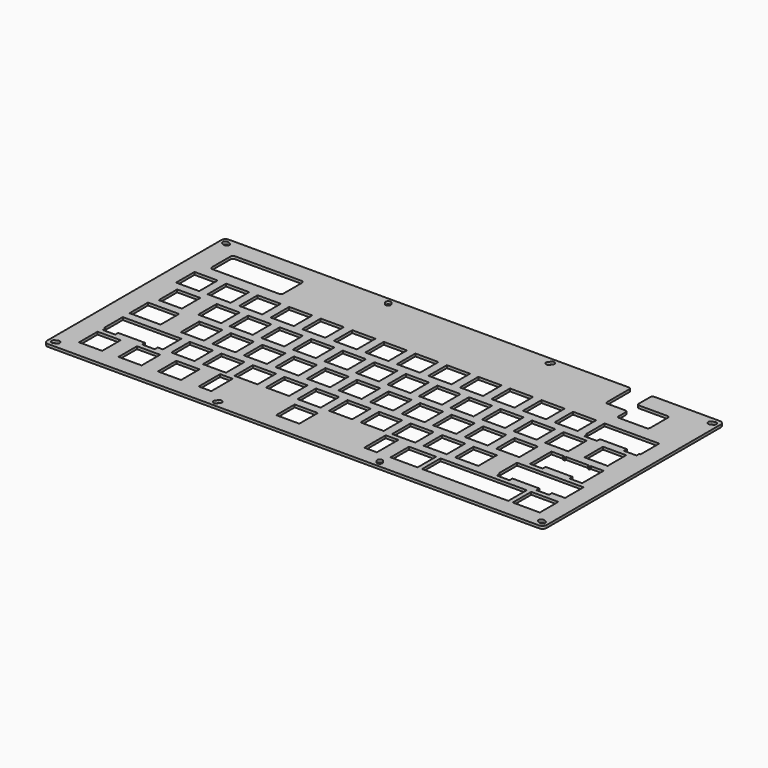
from build123d import *

# Parameters (mm, degrees)
PAD003_DEPTH    = 1.5875
SKETCH004_W     = 13.97
SKETCH004_H     = 13.97
SKETCH004_W_2   = 52.07
SKETCH004_W_3   = 16.35125
POCKET_DEPTH    = 1.5885
SKETCH005_W     = 7.62
SKETCH005_H     = 16.1925
POCKET001_DEPTH = 1.5885
POCKET002_DEPTH = 1.5885


with BuildPart() as part:
    # Sketch003 → Pad003 (new body)
    with BuildSketch(Plane.XY):
        with BuildLine():
            Line((-150.8125, 65.7225), (-150.8125, -65.7225))
            ThreePointArc((-150.8125, -65.7225), (-150.068551, -67.518551), (-148.2725, -68.2625))
            Line((-148.2725, -68.2625), (148.2725, -68.2625))
            ThreePointArc((148.2725, -68.2625), (150.068551, -67.518551), (150.8125, -65.7225))
            Line((150.8125, 65.7225), (150.8125, -65.7225))
            ThreePointArc((150.8125, 65.7225), (150.068551, 67.518551), (148.2725, 68.2625))
            Line((-148.2725, 68.2625), (148.2725, 68.2625))
            ThreePointArc((-148.2725, 68.2625), (-150.068551, 67.518551), (-150.8125, 65.7225))
        make_face()
        with BuildLine():
            ThreePointArc((-146.932012, 66.024454), (-148.973551, 65.226258), (-148.175356, 63.184718))
            Line((-148.175356, 63.184718), (-146.755488, 62.563046))
            ThreePointArc((-146.755488, 62.563046), (-144.713949, 63.361242), (-145.512144, 65.402782))
            Line((-146.932012, 66.024454), (-145.512144, 65.402782))
        make_face(mode=Mode.SUBTRACT)
        with BuildLine():
            ThreePointArc((-148.175356, -63.184718), (-148.973551, -65.226258), (-146.932012, -66.024454))
            Line((-146.932012, -66.024454), (-145.512144, -65.402782))
            ThreePointArc((-145.512144, -65.402782), (-144.713949, -63.361242), (-146.755488, -62.563046))
            Line((-148.175356, -63.184718), (-146.755488, -62.563046))
        make_face(mode=Mode.SUBTRACT)
        with BuildLine():
            ThreePointArc((146.755488, -62.563046), (144.713949, -63.361242), (145.512144, -65.402782))
            Line((145.512144, -65.402782), (146.932012, -66.024454))
            ThreePointArc((146.932012, -66.024454), (148.973551, -65.226258), (148.175356, -63.184718))
            Line((146.755488, -62.563046), (148.175356, -63.184718))
        make_face(mode=Mode.SUBTRACT)
        with BuildLine():
            ThreePointArc((148.175356, 63.184718), (148.973551, 65.226258), (146.932012, 66.024454))
            Line((146.932012, 66.024454), (145.512144, 65.402782))
            ThreePointArc((145.512144, 65.402782), (144.713949, 63.361242), (146.755488, 62.563046))
            Line((148.175356, 63.184718), (146.755488, 62.563046))
        make_face(mode=Mode.SUBTRACT)
        with BuildLine():
            ThreePointArc((-48.184102, 65.849292), (-50.356279, 66.143653), (-50.650639, 63.971476))
            Line((-50.650639, 63.971476), (-49.711731, 62.738208))
            ThreePointArc((-49.711731, 62.738208), (-47.539554, 62.443847), (-47.245194, 64.616024))
            Line((-48.184102, 65.849292), (-47.245194, 64.616024))
        make_face(mode=Mode.SUBTRACT)
        with BuildLine():
            ThreePointArc((47.245194, 64.616024), (47.539554, 62.443847), (49.711731, 62.738208))
            Line((49.711731, 62.738208), (50.650639, 63.971476))
            ThreePointArc((50.650639, 63.971476), (50.356279, 66.143653), (48.184102, 65.849292))
            Line((47.245194, 64.616024), (48.184102, 65.849292))
        make_face(mode=Mode.SUBTRACT)
        with BuildLine():
            ThreePointArc((49.711731, -62.738208), (47.539554, -62.443847), (47.245194, -64.616024))
            Line((47.245194, -64.616024), (48.184102, -65.849292))
            ThreePointArc((48.184102, -65.849292), (50.356279, -66.143653), (50.650639, -63.971476))
            Line((49.711731, -62.738208), (50.650639, -63.971476))
        make_face(mode=Mode.SUBTRACT)
        with BuildLine():
            ThreePointArc((-47.245194, -64.616024), (-47.539554, -62.443847), (-49.711731, -62.738208))
            Line((-49.711731, -62.738208), (-50.650639, -63.971476))
            ThreePointArc((-50.650639, -63.971476), (-50.356279, -66.143653), (-48.184102, -65.849292))
            Line((-47.245194, -64.616024), (-48.184102, -65.849292))
        make_face(mode=Mode.SUBTRACT)
    extrude(amount=PAD003_DEPTH)

    # Sketch004 → Pocket (cut, through all)
    with BuildSketch(Plane.XY):
        with Locations((-133.35, 25.4)):
            Rectangle(SKETCH004_W, SKETCH004_H)
        with Locations((-114.3, 25.4)):
            Rectangle(SKETCH004_W, SKETCH004_H)
        with Locations((-95.25, 25.4)):
            Rectangle(SKETCH004_W, SKETCH004_H)
        with Locations((-76.2, 25.4)):
            Rectangle(SKETCH004_W, SKETCH004_H)
        with Locations((-57.15, 25.4)):
            Rectangle(SKETCH004_W, SKETCH004_H)
        with Locations((-38.1, 25.4)):
            Rectangle(SKETCH004_W, SKETCH004_H)
        with Locations((-19.05, 25.4)):
            Rectangle(SKETCH004_W, SKETCH004_H)
        with Locations((0, 25.4)):
            Rectangle(SKETCH004_W, SKETCH004_H)
        with Locations((19.05, 25.4)):
            Rectangle(SKETCH004_W, SKETCH004_H)
        with Locations((38.1, 25.4)):
            Rectangle(SKETCH004_W, SKETCH004_H)
        with Locations((57.15, 25.4)):
            Rectangle(SKETCH004_W, SKETCH004_H)
        with Locations((76.2, 25.4)):
            Rectangle(SKETCH004_W, SKETCH004_H)
        with Locations((95.25, 25.4)):
            Rectangle(SKETCH004_W, SKETCH004_H)
        Polygon((107.315, 32.385), (121.285, 32.385), (126.365, 32.385), (140.335, 32.385), (140.335, 18.415), (126.365, 18.415), (121.285, 18.415), (107.315, 18.415), align=None)
        with Locations((-128.5875, 6.35)):
            Rectangle(SKETCH004_W, SKETCH004_H)
        with Locations((-104.775, 6.35)):
            Rectangle(SKETCH004_W, SKETCH004_H)
        with Locations((-85.725, 6.35)):
            Rectangle(SKETCH004_W, SKETCH004_H)
        with Locations((-66.675, 6.35)):
            Rectangle(SKETCH004_W, SKETCH004_H)
        with Locations((-47.625, 6.35)):
            Rectangle(SKETCH004_W, SKETCH004_H)
        with Locations((-28.575, 6.35)):
            Rectangle(SKETCH004_W, SKETCH004_H)
        with Locations((-9.525, 6.35)):
            Rectangle(SKETCH004_W, SKETCH004_H)
        with Locations((9.525, 6.35)):
            Rectangle(SKETCH004_W, SKETCH004_H)
        with Locations((28.575, 6.35)):
            Rectangle(SKETCH004_W, SKETCH004_H)
        with Locations((47.625, 6.35)):
            Rectangle(SKETCH004_W, SKETCH004_H)
        with Locations((66.675, 6.35)):
            Rectangle(SKETCH004_W, SKETCH004_H)
        with Locations((85.725, 6.35)):
            Rectangle(SKETCH004_W, SKETCH004_H)
        with Locations((104.775, 6.35)):
            Rectangle(SKETCH004_W, SKETCH004_H)
        with Locations((128.5875, 6.35)):
            Rectangle(SKETCH004_W, SKETCH004_H)
        Polygon((-133.19125, -5.715), (-119.22125, -5.715), (-119.22125, -19.685), (-133.19125, -19.685), (-137.95375, -19.685), (-137.95375, -5.715), align=None)
        with Locations((-100.0125, -12.7)):
            Rectangle(SKETCH004_W, SKETCH004_H)
        with Locations((-80.9625, -12.7)):
            Rectangle(SKETCH004_W, SKETCH004_H)
        with Locations((-61.9125, -12.7)):
            Rectangle(SKETCH004_W, SKETCH004_H)
        with Locations((-42.8625, -12.7)):
            Rectangle(SKETCH004_W, SKETCH004_H)
        with Locations((-23.8125, -12.7)):
            Rectangle(SKETCH004_W, SKETCH004_H)
        with Locations((-4.7625, -12.7)):
            Rectangle(SKETCH004_W, SKETCH004_H)
        with Locations((14.2875, -12.7)):
            Rectangle(SKETCH004_W, SKETCH004_H)
        with Locations((33.3375, -12.7)):
            Rectangle(SKETCH004_W, SKETCH004_H)
        with Locations((52.3875, -12.7)):
            Rectangle(SKETCH004_W, SKETCH004_H)
        with Locations((71.4375, -12.7)):
            Rectangle(SKETCH004_W, SKETCH004_H)
        with Locations((90.4875, -12.7)):
            Rectangle(SKETCH004_W, SKETCH004_H)
        with Locations((121.44375, -12.7)):
            Rectangle(SKETCH004_W, SKETCH004_H)
        Polygon((-137.95375, -24.765), (-123.98375, -24.765), (-116.5225, -24.765), (-102.5525, -24.765), (-102.5525, -38.735), (-116.5225, -38.735), (-123.98375, -38.735), (-137.95375, -38.735), align=None)
        with Locations((-90.4875, -31.75)):
            Rectangle(SKETCH004_W, SKETCH004_H)
        with Locations((-71.4375, -31.75)):
            Rectangle(SKETCH004_W, SKETCH004_H)
        with Locations((-52.3875, -31.75)):
            Rectangle(SKETCH004_W, SKETCH004_H)
        with Locations((-33.3375, -31.75)):
            Rectangle(SKETCH004_W, SKETCH004_H)
        with Locations((-14.2875, -31.75)):
            Rectangle(SKETCH004_W, SKETCH004_H)
        with Locations((4.7625, -31.75)):
            Rectangle(SKETCH004_W, SKETCH004_H)
        with Locations((23.8125, -31.75)):
            Rectangle(SKETCH004_W, SKETCH004_H)
        with Locations((42.8625, -31.75)):
            Rectangle(SKETCH004_W, SKETCH004_H)
        with Locations((61.9125, -31.75)):
            Rectangle(SKETCH004_W, SKETCH004_H)
        with Locations((80.9625, -31.75)):
            Rectangle(SKETCH004_W, SKETCH004_H)
        Polygon((100.17125, -24.765), (114.14125, -24.765), (123.66625, -24.765), (126.365, -24.765), (140.335, -24.765), (140.335, -38.735), (126.365, -38.735), (123.66625, -38.735), (114.14125, -38.735), (100.17125, -38.735), align=None)
        with Locations((-130.96875, -50.8)):
            Rectangle(SKETCH004_W, SKETCH004_H)
        with Locations((-107.15625, -50.8)):
            Rectangle(SKETCH004_W, SKETCH004_H)
        with Locations((-83.34375, -50.8)):
            Rectangle(SKETCH004_W, SKETCH004_H)
        with Locations((-11.90625, -50.8)):
            Rectangle(SKETCH004_W, SKETCH004_H)
        with Locations((95.25, -50.8)):
            Rectangle(SKETCH004_W_2, SKETCH004_H)
        with Locations((58.340625, -50.8)):
            Rectangle(SKETCH004_W_3, SKETCH004_H)
        with Locations((132.159375, -50.8)):
            Rectangle(SKETCH004_W_3, SKETCH004_H)
    extrude(amount=POCKET_DEPTH, mode=Mode.SUBTRACT)

    # Sketch005 → Pocket001 (cut, through all)
    with BuildSketch(Plane.XY):
        Polygon((-137.19175, -24.765), (-129.57175, -24.765), (-113.31575, -24.765), (-105.69575, -24.765), (-105.69575, -40.9575), (-113.31575, -40.9575), (-113.31575, -38.735), (-129.57175, -38.735), (-129.57175, -40.9575), (-137.19175, -40.9575), align=None)
        Polygon((100.93325, -24.765), (108.55325, -24.765), (124.80925, -24.765), (132.42925, -24.765), (132.42925, -40.9575), (124.80925, -40.9575), (124.80925, -38.735), (108.55325, -38.735), (108.55325, -40.9575), (100.93325, -40.9575), align=None)
        Polygon((105.69575, -5.715), (113.31575, -5.715), (113.31575, -6.5532), (114.45875, -6.5532), (114.45875, -5.715), (128.42875, -5.715), (128.42875, -6.5532), (129.57175, -6.5532), (129.57175, -5.715), (137.19175, -5.715), (137.19175, -21.9075), (129.57175, -21.9075), (129.57175, -19.685), (113.31575, -19.685), (113.31575, -21.9075), (105.69575, -21.9075), align=None)
        Polygon((108.077, 32.385), (115.697, 32.385), (131.953, 32.385), (139.573, 32.385), (139.573, 16.1925), (131.953, 16.1925), (131.953, 18.415), (115.697, 18.415), (115.697, 16.1925), (108.077, 16.1925), align=None)
        with Locations((-61.9125, -49.68875)):
            Rectangle(SKETCH005_W, SKETCH005_H)
        with Locations((38.1, -49.68875)):
            Rectangle(SKETCH005_W, SKETCH005_H)
    extrude(amount=POCKET001_DEPTH, mode=Mode.SUBTRACT)

    # Sketch006 → Pocket002 (cut, through all)
    with BuildSketch(Plane.XY):
        with BuildLine():
            ThreePointArc((-135.3693, 56.8325), (-136.491832, 56.367532), (-136.9568, 55.245))
            Line((-136.9568, 41.402), (-136.9568, 55.245))
            ThreePointArc((-136.9568, 41.402), (-136.491832, 40.279468), (-135.3693, 39.8145))
            Line((-135.3693, 39.8145), (-95.3643, 39.8145))
            ThreePointArc((-95.3643, 39.8145), (-94.241768, 40.279468), (-93.7768, 41.402))
            Line((-93.7768, 55.245), (-93.7768, 41.402))
            ThreePointArc((-93.7768, 55.245), (-94.241768, 56.367532), (-95.364301, 56.8325))
            Line((-135.3693, 56.8325), (-95.364301, 56.8325))
        make_face()
        with BuildLine():
            Line((109.22, 56.8325), (125.73, 56.8325))
            ThreePointArc((127, 55.5625), (126.628026, 56.460526), (125.73, 56.8325))
            Line((127, 55.5625), (127, 42.2275))
            ThreePointArc((125.73, 40.9575), (126.628026, 41.329474), (127, 42.2275))
            Line((125.73, 40.9575), (109.22, 40.9575))
            ThreePointArc((107.95, 42.2275), (108.321974, 41.329474), (109.22, 40.9575))
            Line((107.95, 47.624994), (107.95, 42.2275))
            ThreePointArc((107.95, 47.624994), (107.578026, 48.523026), (106.679994, 48.895))
            Line((95.885006, 48.895), (106.679994, 48.895))
            ThreePointArc((94.615, 50.165006), (94.986974, 49.266974), (95.885006, 48.895))
            Line((94.615, 66.992494), (94.615, 50.165006))
            ThreePointArc((94.615, 66.992494), (94.243026, 67.890526), (93.344994, 68.2625))
            Line((93.344994, 68.2625), (94.615, 68.2625))
            Line((94.615, 68.2625), (107.315, 68.2625))
            Line((107.315, 68.2625), (108.585006, 68.2625))
            ThreePointArc((108.585006, 68.2625), (107.686975, 67.890526), (107.315, 66.992494))
            Line((107.315, 66.992494), (107.315, 58.102506))
            ThreePointArc((107.315, 58.102506), (107.686974, 57.204474), (108.585006, 56.8325))
            Line((109.22, 56.8325), (108.585006, 56.8325))
        make_face()
    extrude(amount=POCKET002_DEPTH, mode=Mode.SUBTRACT)


solid = part.part
